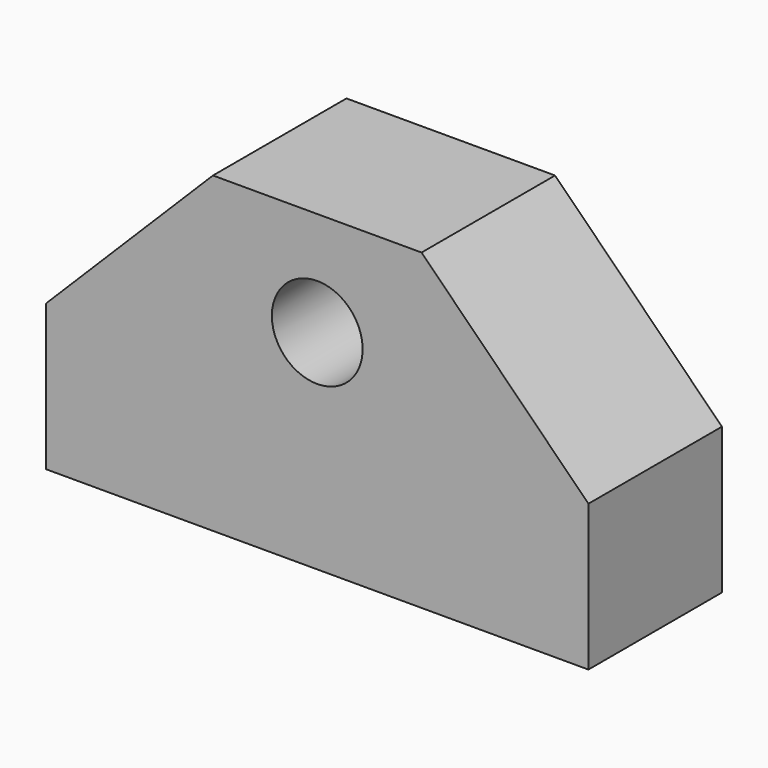
from build123d import *

# Parameters (mm, degrees)
F0_W     = 20.6375
F0_H     = 6.35
F0_R     = 1.35255
F1_DEPTH = 4.7625
F2_W     = 20.6375
F2_H     = 6.35
F3_DEPTH = 7.14375
F4_SIZE  = 6.35
F5_R     = 1.7272
F6_DEPTH = 6.35


with BuildPart() as f1:
    # F0 (on Top) → F1 (new body)
    with BuildSketch(Plane.XY):
        with Locations((10.31875, 3.175)):
            Rectangle(F0_W, F0_H)
        with Locations((3.175, 3.175)):
            Circle(F0_R, mode=Mode.SUBTRACT)
        with Locations((17.4625, 3.175)):
            Circle(F0_R, mode=Mode.SUBTRACT)
    extrude(amount=F1_DEPTH)

    # F2 (on face) → F3 (join)
    with BuildSketch(Plane.XY.offset(4.7625)):
        with Locations((10.31875, 3.175)):
            Rectangle(F2_W, F2_H)
    extrude(amount=F3_DEPTH)

    # F4
    f4_edges = [f1.edges().sort_by_distance(p)[0] for p in [
        (20.6375, 3.175, 11.90625),
        (0, 3.175, 11.90625),
    ]]
    chamfer(f4_edges, length=F4_SIZE)

    # F5 (on face) → F6 (cut, through all)
    with BuildSketch(Plane(origin=(0, 6.35, 0), x_dir=(-1, 0, 0), z_dir=(0, 1, 0))):
        with Locations((-10.31875, 7.9375)):
            Circle(F5_R)
    extrude(amount=-F6_DEPTH, mode=Mode.SUBTRACT)


solid = f1.part
